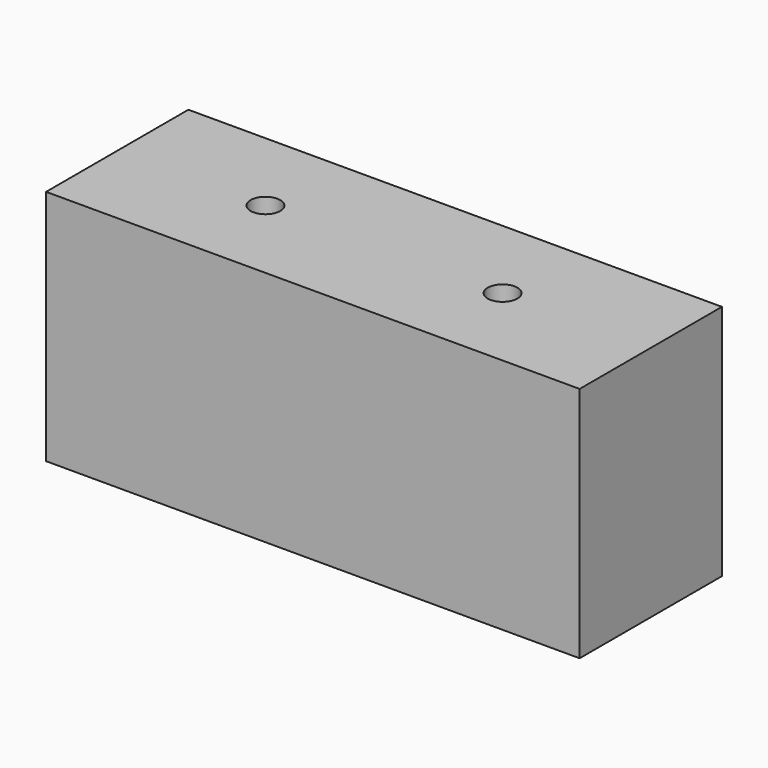
from build123d import *

# Parameters (mm, degrees)
F0_W     = 57.15
F0_H     = 25.4
F1_DEPTH = 19.05
F3_D     = 3.175


with BuildPart() as f1:
    # F0 (on Front) → F1 (new body)
    with BuildSketch(Plane.XZ):
        with Locations((-95.852142, 16.863709)):
            Rectangle(F0_W, F0_H)
    extrude(amount=F1_DEPTH)

    # F3 (through all)
    with Locations(Plane.XY.offset(29.563709)):
        with Locations((-108.552142, -9.525), (-83.152142, -9.525)):
            Hole(F3_D / 2)


solid = f1.part
